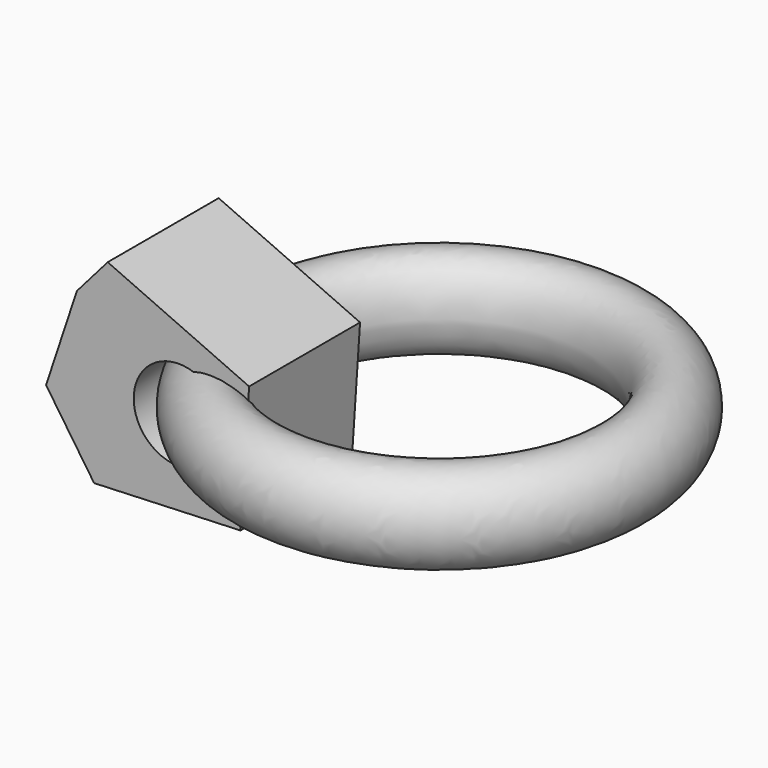
from build123d import *

# Parameters (mm, degrees)
F1_DEPTH  = 50.8
F2_R      = 16.53722
F3_DEPTH  = 12.7
F3_FACE_R = 16.53722


with BuildPart() as f1:
    # F0 (on Front) → F1 (new body)
    with BuildSketch(Plane.XZ):
        Polygon((25.729356, 17.595561), (-26.061349, 40.834982), (-37.349068, 27.887303), (-48.636787, -6.141847), (-31.041225, -32.037199), (22.575436, -29.879253), align=None)
    extrude(amount=F1_DEPTH)

    # F2 (on face) → F3 (cut)
    with BuildSketch(Plane.XZ.offset(50.8)):
        Circle(F2_R)
    extrude(amount=-F3_DEPTH, mode=Mode.SUBTRACT)


with BuildPart() as f4:
    # F3_face (on face) → F4 (revolve)
    with BuildSketch(Plane.XZ.offset(38.1)):
        Circle(F3_FACE_R)
    revolve(axis=Axis((54.778628, 0, 1.244969), (0, 0, -1)))


solid = Compound([f1.part, f4.part])
